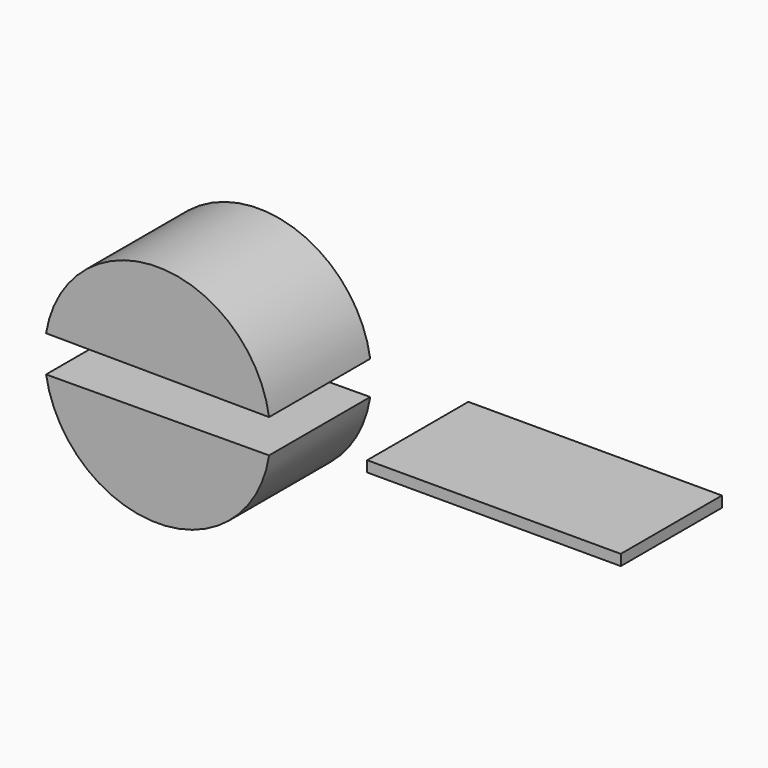
from build123d import *

# Parameters (mm, degrees)
F0_W     = 50.148003
F0_H     = 2.142
F1_DEPTH = 25


with BuildPart() as f1:
    # F0 (on Front) → F1 (new body)
    with BuildSketch(Plane.XZ):
        with BuildLine():
            Line((-56.448001, 3.583067), (-12.348001, 3.331068))
            ThreePointArc((-12.348001, 3.331068), (-34.290217, 22.31936), (-56.448001, 3.583067))
        make_face()
        with BuildLine():
            Line((-12.348001, -3.331068), (-56.448001, -3.583067))
            ThreePointArc((-56.448001, -3.583067), (-34.290217, -22.31936), (-12.348001, -3.331068))
        make_face()
        with Locations((32.130002, 1.071)):
            Rectangle(F0_W, F0_H)
    extrude(amount=F1_DEPTH)


solid = f1.part
